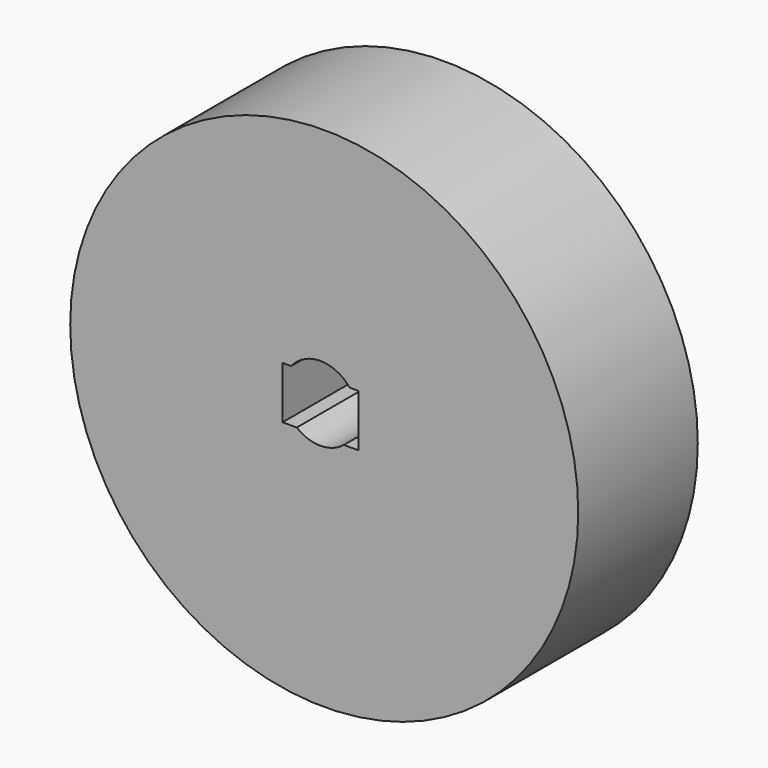
from build123d import *

# Parameters (mm, degrees)
F0_R     = 34
F1_DEPTH = 20
F3_DEPTH = 69.9


with BuildPart() as f1:
    # F0 (on Front) → F1 (new body)
    with BuildSketch(Plane.XZ):
        with Locations((26.6904365271, 8)):
            Circle(F0_R)
    extrude(amount=F1_DEPTH)

    # F2 (on Front) → F3 (cut)
    with BuildSketch(Plane.XZ):
        with BuildLine():
            ThreePointArc((29.3303070788, 5.7436209172), (30.6890773061, 7.4743873403), (31.1732582003, 9.6208676696))
            ThreePointArc((31.1732582003, 9.6208676696), (30.8915527889, 11.2754661633), (30.0781797302, 12.7436209172))
            Line((30.0781797302, 12.7436209172), (22.2683366704, 12.7436209172))
            ThreePointArc((22.2683366704, 12.7436209172), (21.2015526064, 9.0896958632), (23.0162093218, 5.7436209172))
            Line((23.0162093218, 5.7436209172), (29.3303070788, 5.7436209172))
        make_face()
        with BuildLine():
            ThreePointArc((30.0781797302, 12.7436209172), (30.8915527889, 11.2754661633), (31.1732582003, 9.6208676696))
            ThreePointArc((31.1732582003, 9.6208676696), (30.6890773061, 7.4743873403), (29.3303070788, 5.7436209172))
            Line((29.3303070788, 5.7436209172), (31.3018932939, 5.7436209172))
            Line((31.3018932939, 5.7436209172), (31.3018932939, 12.7436209172))
            Line((31.3018932939, 12.7436209172), (30.0781797302, 12.7436209172))
        make_face()
        with BuildLine():
            Line((22.2683366704, 12.7436209172), (30.0781797302, 12.7436209172))
            ThreePointArc((30.0781797302, 12.7436209172), (26.1732582003, 14.6208676696), (22.2683366704, 12.7436209172))
        make_face()
        with BuildLine():
            ThreePointArc((23.0162093218, 5.7436209172), (26.1732582003, 4.6208676696), (29.3303070788, 5.7436209172))
            Line((29.3303070788, 5.7436209172), (23.0162093218, 5.7436209172))
        make_face()
        with BuildLine():
            ThreePointArc((23.0162093218, 5.7436209172), (21.2015526064, 9.0896958632), (22.2683366704, 12.7436209172))
            Line((22.2683366704, 12.7436209172), (21.117951721, 12.7436209172))
            Line((21.117951721, 12.7436209172), (21.117951721, 5.7436209172))
            Line((21.117951721, 5.7436209172), (23.0162093218, 5.7436209172))
        make_face()
    extrude(amount=F3_DEPTH, mode=Mode.SUBTRACT)


solid = f1.part
